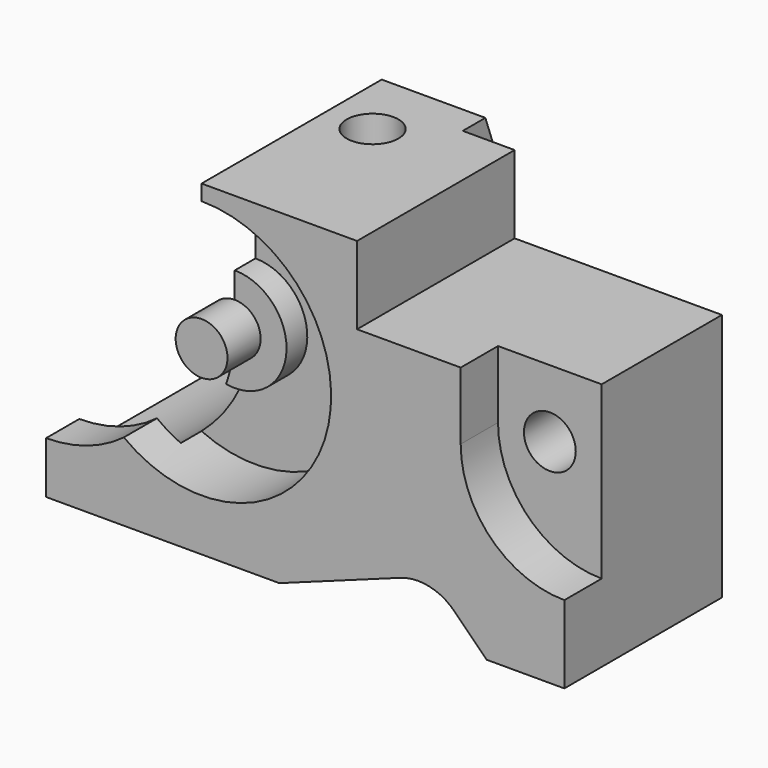
from build123d import *

# Parameters (mm, degrees)
F1_DEPTH  = 50
F3_DEPTH  = 9
F4_R      = 5
F5_DEPTH  = 41.001
F6_R      = 25
F7_DEPTH  = 13
F8_R      = 10
F9_DEPTH  = 5
F10_R     = 5
F11_DEPTH = 8
F12_R     = 25
F13_DEPTH = 50.001
F15_DEPTH = 42
F17_DEPTH = 8.001
F20_DEPTH = 63.001
F22_DEPTH = 70.001
F23_R     = 5
F24_DEPTH = 63.001


with BuildPart() as f1:
    # F0 (on Front) → F1 (new body)
    with BuildSketch(Plane.XZ):
        with BuildLine():
            Line((0, 63), (0, 0))
            Line((0, 0), (45, 0))
            Line((45, 0), (68.3396509331, 8.4949382178))
            ThreePointArc((68.3396509331, 8.4949382178), (73.9242485057, 8.8609720811), (78.8309201782, 6.1690798218))
            Line((78.8309201782, 6.1690798218), (85, 0))
            Line((85, 0), (100, 0))
            Line((100, 0), (100, 48))
            Line((100, 48), (60, 48))
            Line((60, 48), (60, 63))
            Line((60, 63), (0, 63))
        make_face()
    extrude(amount=-F1_DEPTH)

    # F2 (on face) → F3 (cut)
    with BuildSketch(Plane.XZ):
        with BuildLine():
            Line((80, 48), (80, 35))
            ThreePointArc((80, 35), (85.8578643763, 20.8578643763), (100, 15))
            Line((100, 15), (100, 48))
            Line((100, 48), (80, 48))
        make_face()
    extrude(amount=-F3_DEPTH, mode=Mode.SUBTRACT)

    # F4 (on face) → F5 (cut, through all)
    with BuildSketch(Plane.XZ.offset(-9)):
        with Locations((90, 35)):
            Circle(F4_R)
    extrude(amount=-F5_DEPTH, mode=Mode.SUBTRACT)

    # F6 (on face) → F7 (cut)
    with BuildSketch(Plane.XZ):
        with Locations((30, 35)):
            Circle(F6_R)
    extrude(amount=-F7_DEPTH, mode=Mode.SUBTRACT)

    # F8 (on face) → F9 (join)
    with BuildSketch(Plane.XZ.offset(-13)):
        with Locations((30, 35)):
            Circle(F8_R)
    extrude(amount=F9_DEPTH)

    # F10 (on face) → F11 (join)
    with BuildSketch(Plane.XZ.offset(-8)):
        with Locations((30, 35)):
            Circle(F10_R)
    extrude(amount=F11_DEPTH)

    # F12 (on face) → F13 (cut, through all)
    with BuildSketch(Plane.XZ):
        with Locations((0, 35)):
            Circle(F12_R)
    extrude(amount=-F13_DEPTH, mode=Mode.SUBTRACT)

    # F14 (on face) → F15 (cut)
    with BuildSketch(Plane(origin=(0, 50, 0), x_dir=(-1, 0, 0), z_dir=(0, 1, 0))):
        with BuildLine():
            Line((-30, 63), (-30, 35))
            ThreePointArc((-30, 35), (-21.2132034356, 13.7867965644), (0, 5))
            Line((0, 5), (0, 63))
            Line((0, 63), (-30, 63))
        make_face()
    extrude(amount=-F15_DEPTH, mode=Mode.SUBTRACT)

    # F16 (on face) → F17 (cut, through all)
    with BuildSketch(Plane(origin=(0, 8, 0), x_dir=(-1, 0, 0), z_dir=(0, 1, 0))):
        with BuildLine():
            Line((0, 63), (-30, 63))
            Line((-30, 63), (-30, 60))
            ThreePointArc((-30, 60), (-22.0943058496, 58.7170824513), (-15, 55))
            ThreePointArc((-15, 55), (-7.9056941504, 58.7170824513), (0, 60))
            Line((0, 60), (0, 63))
        make_face()
    extrude(amount=-F17_DEPTH, mode=Mode.SUBTRACT)

    # F19 (on offset) → F20 (cut, through all)
    with BuildSketch(Plane(origin=(0, 0, 63), x_dir=(1, 0, 0), z_dir=(0, 0, -1))):
        Polygon((50, -50), (60, -50), (100, -50), (100, -38), (50, -38), align=None)
    extrude(amount=F20_DEPTH, mode=Mode.SUBTRACT)

    # F21 (on face) → F22 (cut, through all)
    with BuildSketch(Plane(origin=(30, 0, 0), x_dir=(0, -1, 0), z_dir=(-1, 0, 0))):
        Polygon((-43.4485357832, 63), (-50, 63), (-50, 45), align=None)
    extrude(amount=-F22_DEPTH, mode=Mode.SUBTRACT)

    # F23 (on face) → F24 (cut, through all)
    with BuildSketch(Plane.XY.offset(63)):
        with Locations((39, 30)):
            Circle(F23_R)
    extrude(amount=-F24_DEPTH, mode=Mode.SUBTRACT)


solid = f1.part
